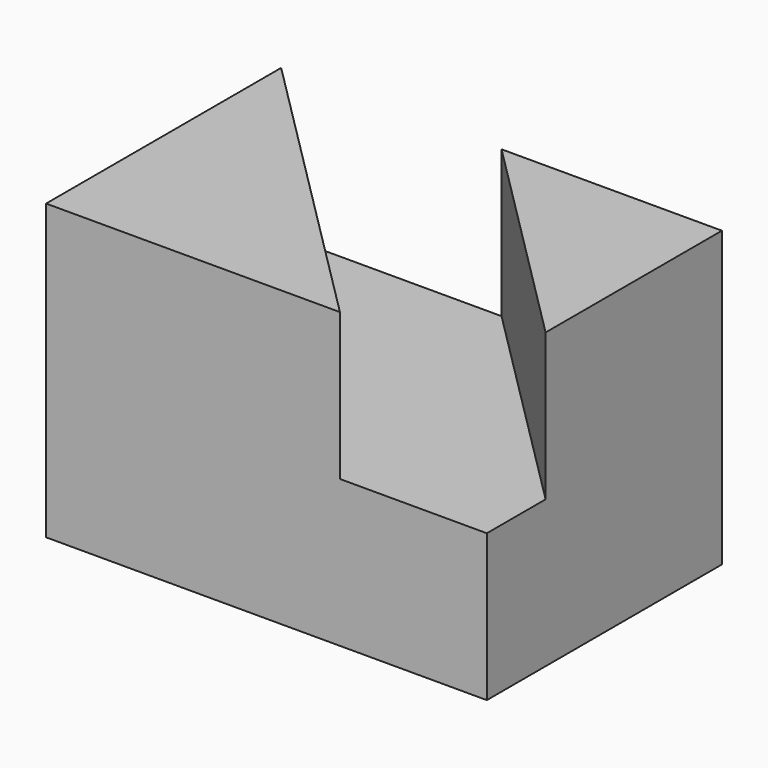
from build123d import *

# Parameters (mm, degrees)
F1_DEPTH = 20
F2_DEPTH = 40


with BuildPart() as f1:
    # F0 (on Top) → F1 (new body)
    with BuildSketch(Plane.XY):
        Polygon((0, 40), (40, 0), (60, 0), (60, 10), (30, 40), align=None)
    extrude(amount=F1_DEPTH)

    # F0 (on Top) → F2 (join)
    with BuildSketch(Plane.XY):
        Polygon((0, 40), (0, 0), (40, 0), align=None)
        Polygon((60, 40), (30, 40), (60, 10), align=None)
    extrude(amount=F2_DEPTH)


solid = f1.part
